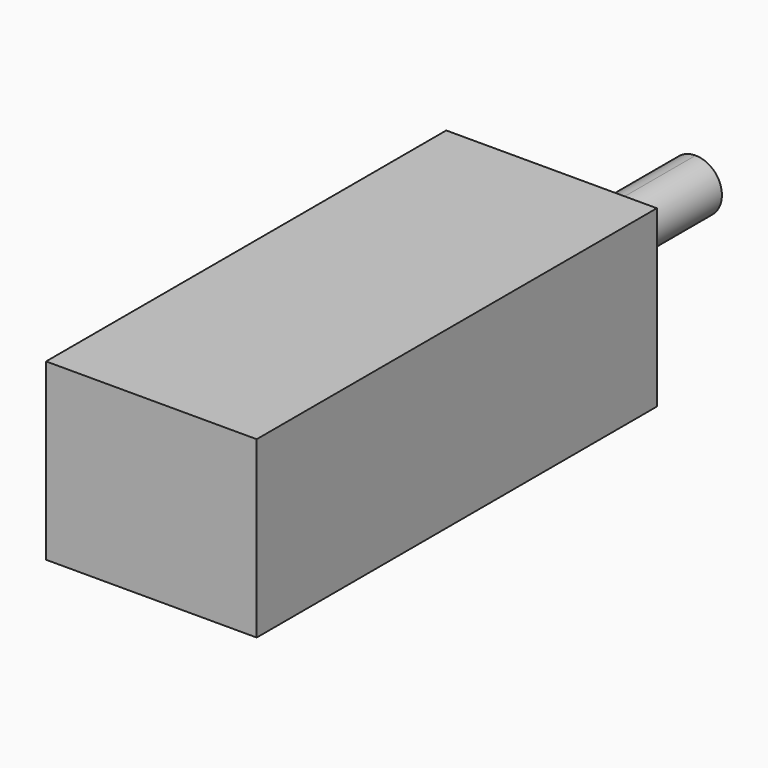
from build123d import *

# Parameters (mm, degrees)
F0_W     = 12
F0_H     = 9.95
F1_DEPTH = 28.5
F3_DEPTH = 10.26


with BuildPart() as f1:
    # F0 (on Front) → F1 (new body)
    with BuildSketch(Plane.XZ):
        with Locations((0, 4.975)):
            Rectangle(F0_W, F0_H)
    extrude(amount=F1_DEPTH)

    # F2 (on face) → F3 (join)
    with BuildSketch(Plane(origin=(0, 0, 0), x_dir=(-1, 0, 0), z_dir=(0, 1, 0))):
        with BuildLine():
            ThreePointArc((0, 6.475), (-1.5, 4.975), (0, 3.475))
            Line((0, 3.475), (0, 6.475))
        make_face()
        with BuildLine():
            Line((0, 6.475), (0, 3.475))
            ThreePointArc((0, 3.475), (1.0606601718, 3.9143398282), (1.5, 4.975))
            ThreePointArc((1.5, 4.975), (1.0606601718, 6.0356601718), (0, 6.475))
        make_face()
    extrude(amount=F3_DEPTH)


solid = f1.part
